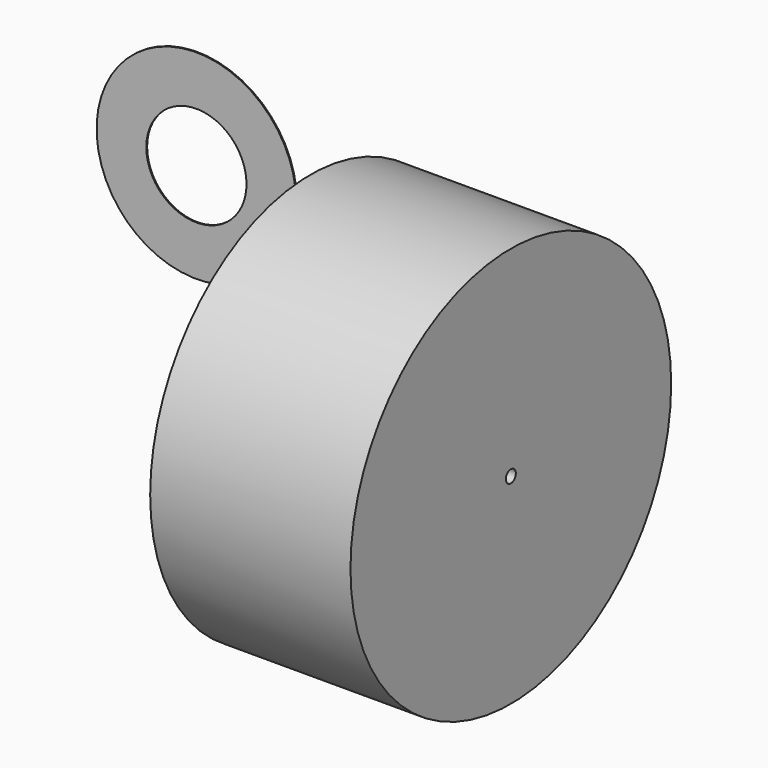
from build123d import *

# Parameters (mm, degrees)
F0_R      = 50.8354773478
F1_DEPTH  = 50.8
F2_T      = -7.62
F3_R      = 25.3742065127
F4_DEPTH  = 5.08
F6_D      = 45.72
F7_R      = 25.3749956212
F8_DEPTH  = 1.27
F9_R      = 25.3053826343
F10_DEPTH = 0.254
F11_D     = 25.4
F12_R     = 50.6927186413
F13_DEPTH = 2.54
F14_D     = 38.1
F19_D     = 3.175


with BuildPart() as f1:
    # F0 (on Right) → F1 (new body)
    with BuildSketch(Plane.YZ):
        Circle(F0_R)
    extrude(amount=F1_DEPTH)

    # F2
    f2_openings = [f1.faces().sort_by_distance(p)[0] for p in [
        (0, 0, 0),
    ]]
    offset(amount=F2_T, openings=f2_openings)

    # F19 (through all)
    with Locations(Plane.YZ.offset(50.8)):
        with Locations((0, 0)):
            Hole(F19_D / 2)


with BuildPart() as f4:
    # F3 (on Front) → F4 (new body)
    with BuildSketch(Plane.XZ):
        Circle(F3_R)
    extrude(amount=F4_DEPTH)

    # F6 (through all)
    with Locations(Plane(origin=(0, 0, 0), x_dir=(-1, 0, 0), z_dir=(0, 1, 0))):
        with Locations((0, 0)):
            Hole(F6_D / 2)


with BuildPart() as f8:
    # F7 (on Front) → F8 (new body)
    with BuildSketch(Plane.XZ):
        Circle(F7_R)
    extrude(amount=-F8_DEPTH)


with BuildPart() as f10:
    # F9 (on Front) → F10 (new body)
    with BuildSketch(Plane.XZ):
        with Locations((-28.7408940494, 43.5877144337)):
            Circle(F9_R)
    extrude(amount=F10_DEPTH)

    # F11 (through all)
    with Locations(Plane(origin=(0, 0, 0), x_dir=(1, 0, 0), z_dir=(0, 1, 0))):
        with Locations((-28.7408940494, -43.5877144337)):
            Hole(F11_D / 2)


with BuildPart() as f13:
    # F12 (on Right) → F13 (new body)
    with BuildSketch(Plane.YZ):
        Circle(F12_R)
    extrude(amount=F13_DEPTH)

    # F14 (through all)
    with Locations(Plane(origin=(0, 0, 0), x_dir=(0, 1, 0), z_dir=(-1, 0, 0))):
        with Locations((0, 0)):
            Hole(F14_D / 2)


solid = Compound([f1.part, f4.part, f10.part, f13.part])
